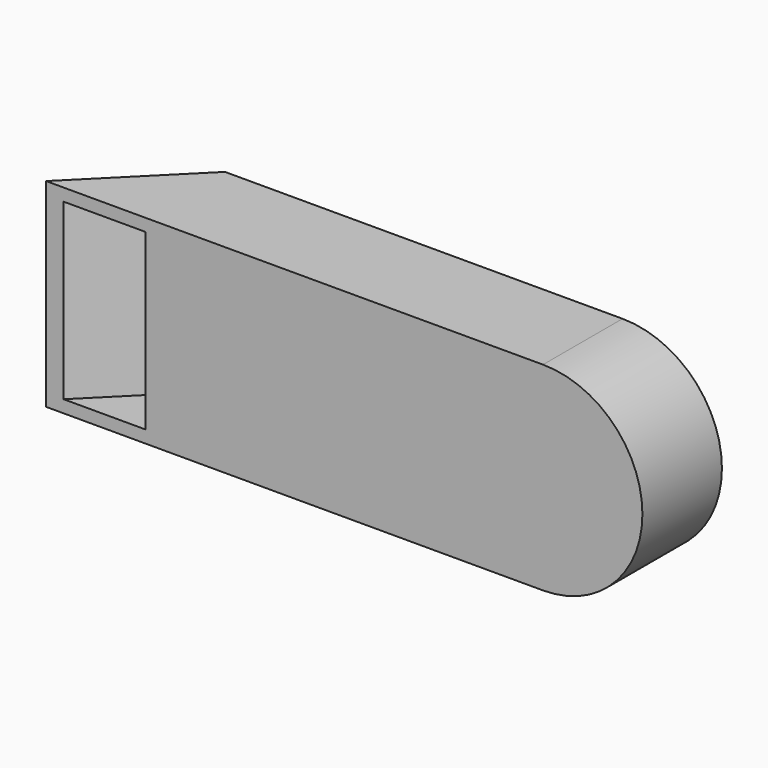
from build123d import *

# Parameters (mm, degrees)
F0_R      = 25.4
F1_DEPTH  = 25.4
F2_W      = 25.4
F2_H      = 50.8
F3_DEPTH  = 101.6
F4_W      = 19.05
F4_H      = 44.45
F5_DEPTH  = 101.6
F6_R      = 22.225
F7_DEPTH  = 22.225
F9_DEPTH  = 3.175
F11_DEPTH = 3.175
F13_DEPTH = 50.8


with BuildPart() as f1:
    # F0 (on Front) → F1 (new body)
    with BuildSketch(Plane.XZ):
        Circle(F0_R)
    extrude(amount=-F1_DEPTH)

    # F2 (on Right) → F3 (join)
    with BuildSketch(Plane.YZ):
        with Locations((12.7, 0)):
            Rectangle(F2_W, F2_H)
    extrude(amount=-F3_DEPTH)

    # F4 (on face) → F5 (cut)
    with BuildSketch(Plane(origin=(-101.6, 0, 0), x_dir=(0, -1, 0), z_dir=(-1, 0, 0))):
        with Locations((-12.7, 0)):
            Rectangle(F4_W, F4_H)
    extrude(amount=-F5_DEPTH, mode=Mode.SUBTRACT)

    # F6 (on face) → F7 (cut)
    with BuildSketch(Plane(origin=(0, 25.4, 0), x_dir=(-1, 0, 0), z_dir=(0, 1, 0))):
        Circle(F6_R)
    extrude(amount=-F7_DEPTH, mode=Mode.SUBTRACT)

    # F8 (on face) → F9 (join)
    with BuildSketch(Plane(origin=(0, 0, -25.4), x_dir=(1, 0, 0), z_dir=(0, 0, -1))):
        Polygon((-127, 0), (-101.6, -25.4), (-101.6, 0), align=None)
    extrude(amount=-F9_DEPTH)

    # F10 (on face) → F11 (join)
    with BuildSketch(Plane.XY.offset(25.4)):
        Polygon((-101.6, 0), (-101.6, 25.4), (-127, 0), align=None)
    extrude(amount=-F11_DEPTH)

    # F12 (on face) → F13 (join)
    with BuildSketch(Plane.XY.offset(25.4)):
        Polygon((-97.109872, 25.4), (-101.6, 25.4), (-127, 0), (-122.509872, 0), align=None)
    extrude(amount=-F13_DEPTH)


solid = f1.part
